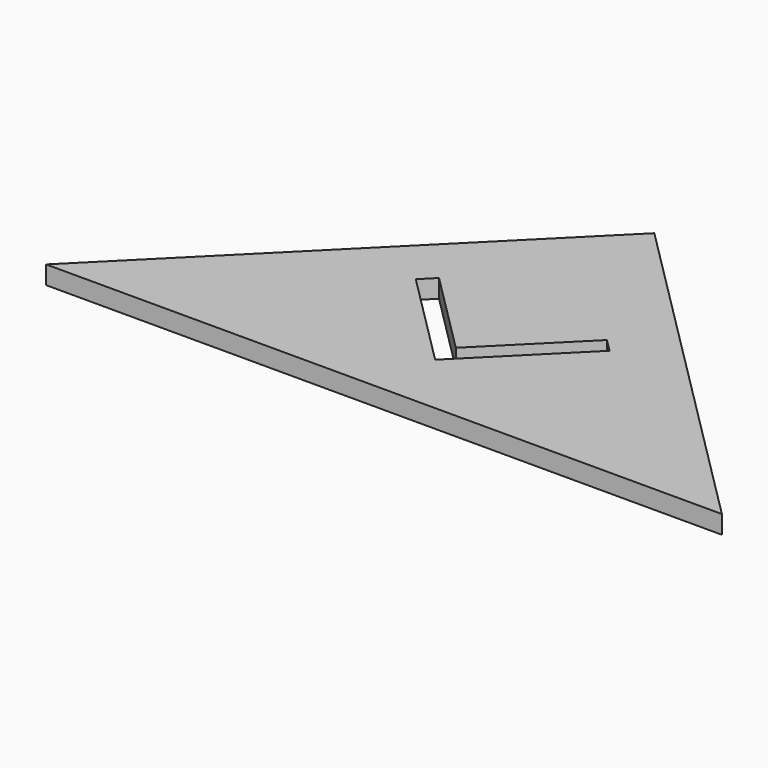
from build123d import *

# Parameters (mm, degrees)
BOX085_W                  = 7.5
BOX085_H                  = 1
BOX085_DEPTH              = 2
BOX086_W                  = 7.5
BOX086_H                  = 1
BOX086_DEPTH              = 2
FUSION016_PLACEMENT_ANGLE = 45
EXTRUDE_DEPTH             = 1


with BuildPart() as cube085:
    # Box085 → Box085 (new body)
    with BuildSketch(Plane.XY):
        with Locations((3.75, 0.5)):
            Rectangle(BOX085_W, BOX085_H)
    extrude(amount=BOX085_DEPTH)


with BuildPart() as obj1:
    # Box086 → Box086 (new body)
    with BuildSketch(Plane(origin=(1, 0, 0), x_dir=(0, 1, 0), z_dir=(0, 0, 1))):
        with Locations((3.75, 0.5)):
            Rectangle(BOX086_W, BOX086_H)
    extrude(amount=BOX086_DEPTH)

    # Fusion016: union Cube085
    add(cube085.part)


with BuildPart() as obj1_1:
    # Fusion016 placement: moved
    add(obj1.part.moved(Location((0, -15, 0))).rotate(Axis((0, -15, 0), (0, 0, 1)), FUSION016_PLACEMENT_ANGLE))


with BuildPart() as cut009:
    # Sketch011 → Extrude (new body)
    with BuildSketch(Plane.XY):
        Polygon((0, 0), (18.5, -18.5), (-18.5, -18.5), align=None)
    extrude(amount=EXTRUDE_DEPTH)

    # Cut009: cut obj1
    add(obj1_1.part, mode=Mode.SUBTRACT)


solid = cut009.part
